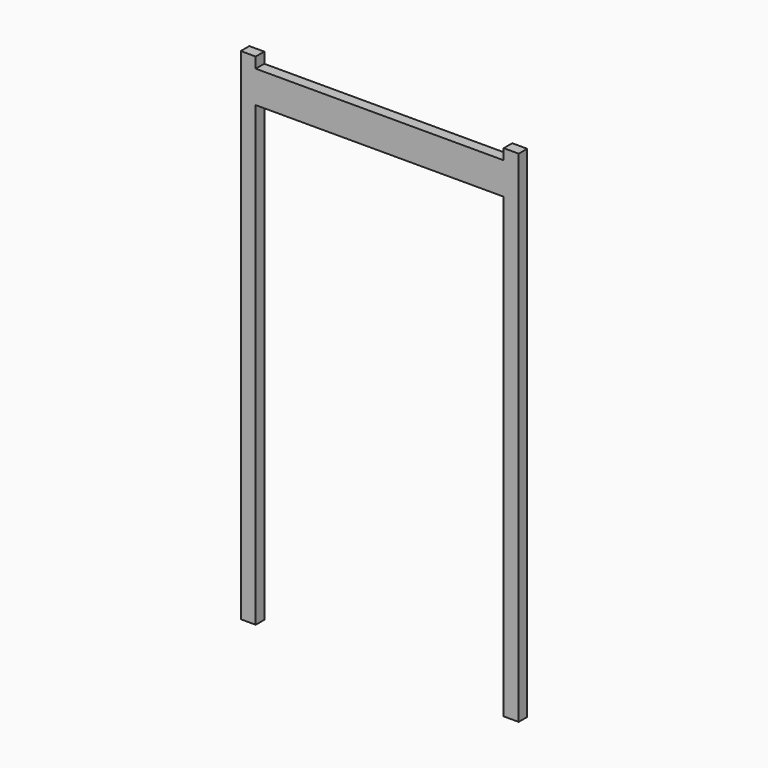
from build123d import *

# Parameters (mm, degrees)
F0_W     = 58
F0_H     = 15
F1_DEPTH = 5


with BuildPart() as f1:
    # F0 (on Front) → F1 (new body)
    with BuildSketch(Plane.XZ):
        with Locations((-29, 105.977764)):
            Rectangle(F0_W, F0_H)
        Polygon((-65, 118.477764), (-65, -115.522236), (-58, -115.522236), (-58, 98.477764), (-58, 113.477764), (-58, 118.477764), align=None)
        with Locations((29, 105.977764)):
            Rectangle(F0_W, F0_H)
        Polygon((58, 113.477764), (58, 98.477764), (58, -115.522236), (65, -115.522236), (65, 118.477764), (58, 118.477764), align=None)
    extrude(amount=F1_DEPTH)


solid = f1.part
